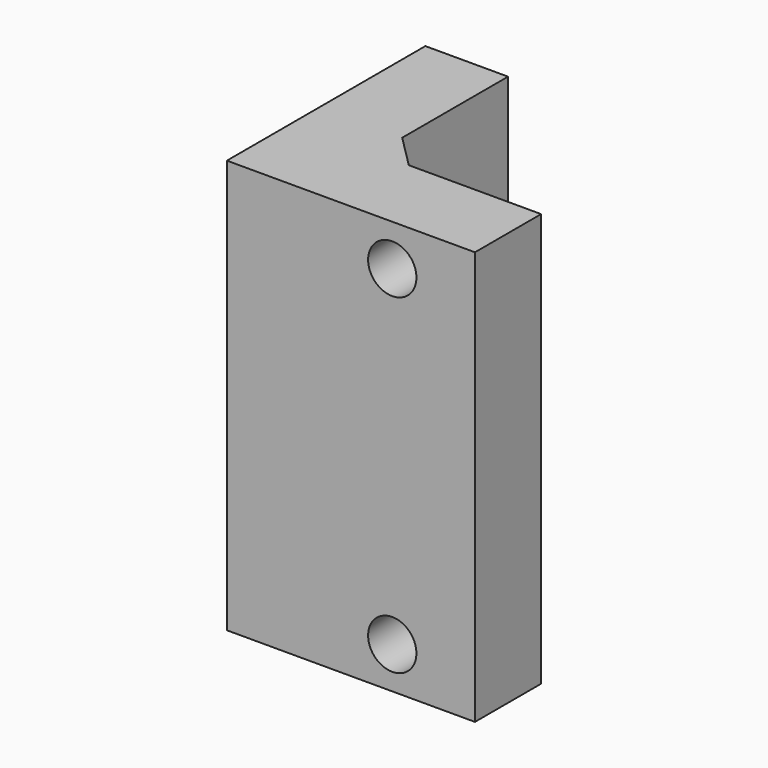
from build123d import *

# Parameters (mm, degrees)
F1_DEPTH = 25
F2_R     = 1.75
F3_DEPTH = 25
F4_R     = 1.461251
F5_DEPTH = 25
F6_SIZE  = 2


with BuildPart() as f1:
    # F0 (on Top) → F1 (new body)
    with BuildSketch(Plane.XY):
        Polygon((0, 15), (0, 0), (15, 0), (15, 5), (5, 5), (5, 15), align=None)
    extrude(amount=F1_DEPTH)

    # F2 (on face) → F3 (cut)
    with BuildSketch(Plane.YZ.offset(5)):
        with Locations((10, 6.5)):
            Circle(F2_R)
        with Locations((10, 18.5)):
            Circle(F2_R)
    extrude(amount=-F3_DEPTH, mode=Mode.SUBTRACT)

    # F4 (on face) → F5 (cut)
    with BuildSketch(Plane(origin=(0, 5, 0), x_dir=(-1, 0, 0), z_dir=(0, 1, 0))):
        with Locations((-10, 2.5)):
            Circle(F4_R)
        with Locations((-10, 22.5)):
            Circle(F4_R)
    extrude(amount=-F5_DEPTH, mode=Mode.SUBTRACT)

    # F6
    f6_edges = [f1.edges().sort_by_distance(p)[0] for p in [
        (5, 5, 12.5),
    ]]
    chamfer(f6_edges, length=F6_SIZE)


solid = f1.part
